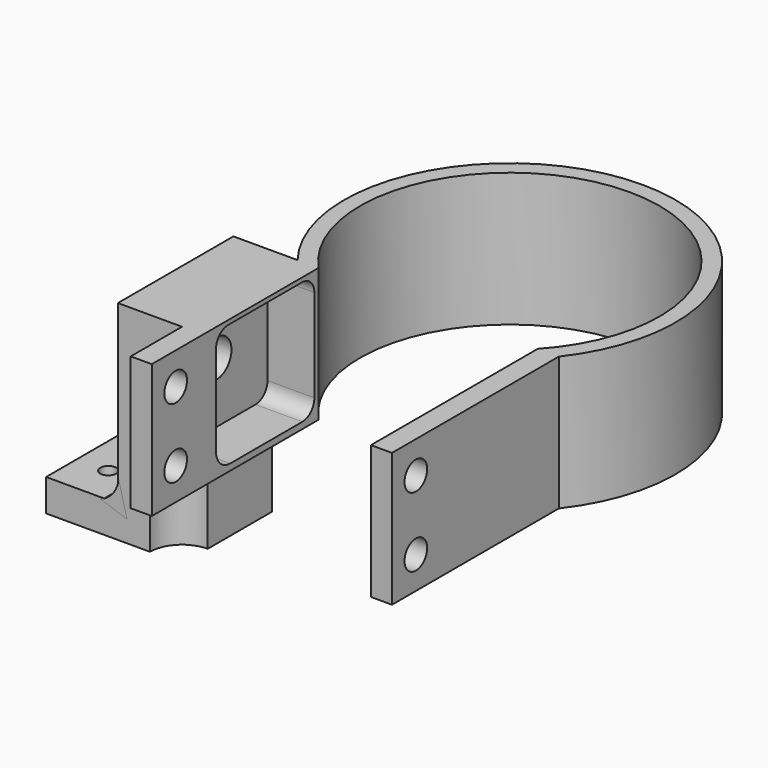
from build123d import *

# Parameters (mm, degrees)
PAD079_DEPTH    = 25
SKETCH168_R     = 28
POCKET096_DEPTH = 25
SKETCH169_W     = 48.856676
SKETCH169_H     = 39
PAD080_DEPTH    = 25
SKETCH172_W     = 27
SKETCH172_H     = 39
PAD081_DEPTH    = 12
SKETCH175_W     = 27
SKETCH175_H     = 6
PAD082_DEPTH    = 15
SKETCH170_W     = 40.975294
SKETCH170_H     = 39
POCKET097_DEPTH = 25.001
PAD083_DEPTH    = 27
POCKET098_DEPTH = 9
SKETCH177_R     = 6
POCKET099_DEPTH = 14
SKETCH171_R     = 2.65
POCKET100_DEPTH = 55.429338
SKETCH174_R     = 3.5
POCKET101_DEPTH = 8
SKETCH176_R     = 1.5
POCKET102_DEPTH = 6


with BuildPart() as part:
    # Sketch167 → Pad079 (new body)
    with BuildSketch(Plane.XY):
        with BuildLine():
            ThreePointArc((24.428333, -19.085506), (0, 31), (-24.428333, -19.085506))
            Line((-24.428333, -19.085506), (24.428333, -19.085506))
        make_face()
    extrude(amount=PAD079_DEPTH)

    # Sketch168 → Pocket096 (cut)
    with BuildSketch(Plane.XY):
        Circle(SKETCH168_R)
    extrude(amount=POCKET096_DEPTH, mode=Mode.SUBTRACT)

    # Sketch169 → Pad080 (join)
    with BuildSketch(Plane.XY):
        with Locations((0, -38.5855)):
            Rectangle(SKETCH169_W, SKETCH169_H)
    extrude(amount=PAD080_DEPTH)

    # Sketch172 (on Face3 of Pad080) → Pad081 (join)
    with BuildSketch(Plane(origin=(-24.428338, 0, 0), x_dir=(0, -1, 0), z_dir=(-1, 0, 0))):
        with Locations((32.5855, 5.5)):
            Rectangle(SKETCH172_W, SKETCH172_H)
    extrude(amount=PAD081_DEPTH)

    # Sketch175 → Pad082 (join)
    with BuildSketch(Plane(origin=(-34.852298, 0, 0), x_dir=(0, -1, 0), z_dir=(-1, 0, 0))):
        with Locations((32.5855, -11)):
            Rectangle(SKETCH175_W, SKETCH175_H)
    extrude(amount=PAD082_DEPTH)

    # Sketch170 → Pocket097 (cut, through all)
    with BuildSketch(Plane.XY):
        with Locations((0, -38.5855)):
            Rectangle(SKETCH170_W, SKETCH170_H)
    extrude(amount=POCKET097_DEPTH, mode=Mode.SUBTRACT)

    # Sketch178 (on Face3 of Pocket097) → Pad083 (join)
    with BuildSketch(Plane(origin=(-2e-06, -19.085505, 0), x_dir=(-1, 0, 0), z_dir=(0, 1, 0))):
        with BuildLine():
            ThreePointArc((36.284298, -3.912067), (37.350001, -6.635466), (39.740093, -8.32072))
            Line((34.729457, -10.005197), (39.740093, -8.32072))
            Line((36.284298, -3.912067), (34.729457, -10.005197))
        make_face()
    extrude(amount=-PAD083_DEPTH)

    # Sketch173 → Pocket098 (cut)
    with BuildSketch(Plane(origin=(-20.254085, -4e-06, 0), x_dir=(0, 1, 0), z_dir=(1, 0, 0))):
        with BuildLine():
            Line((-43.0855, 21.332453), (-43.0855, 4.527547))
            ThreePointArc((-43.0855, 4.527547), (-42.110884, 2.174616), (-39.757953, 1.2))
            Line((-39.757953, 1.2), (-22.878191, 1.2))
            ThreePointArc((-22.878191, 1.2), (-20.90346, 2.01796), (-20.0855, 3.992691))
            Line((-20.0855, 3.992691), (-20.0855, 21.342255))
            ThreePointArc((-20.0855, 21.342255), (-20.922514, 23.362986), (-22.943245, 24.2))
            Line((-22.943245, 24.2), (-40.217953, 24.2))
            ThreePointArc((-40.217953, 24.2), (-42.245615, 23.360115), (-43.0855, 21.332453))
        make_face()
    extrude(amount=-POCKET098_DEPTH, mode=Mode.SUBTRACT)

    # Sketch177 → Pocket099 (cut)
    with BuildSketch(Plane(origin=(0, 0, -14), x_dir=(1, 0, 0), z_dir=(0, 0, -1))):
        with Locations((-24.428338, 46.0855)):
            Circle(SKETCH177_R)
        with Locations((-24.428338, 19.0855)):
            Circle(SKETCH177_R)
    extrude(amount=-POCKET099_DEPTH, mode=Mode.SUBTRACT)

    # Sketch171 (on Face12 of Pocket099) → Pocket100 (cut, through all)
    with BuildSketch(Plane(origin=(-24.428338, 0, 0), x_dir=(0, -1, 0), z_dir=(-1, 0, 0))):
        with Locations((52.5, 19)):
            Circle(SKETCH171_R)
        with Locations((52.5, 6)):
            Circle(SKETCH171_R)
    extrude(amount=-POCKET100_DEPTH, mode=Mode.SUBTRACT)

    # Sketch174 (on Face7 of Pocket100) → Pocket101 (cut)
    with BuildSketch(Plane(origin=(-36.428338, 0, 0), x_dir=(0, -1, 0), z_dir=(-1, 0, 0))):
        with Locations((32, 12.5)):
            Circle(SKETCH174_R)
    extrude(amount=-POCKET101_DEPTH, mode=Mode.SUBTRACT)

    # Sketch176 (on Face10 of Pocket101) → Pocket102 (cut)
    with BuildSketch(Plane(origin=(0, 0, -14), x_dir=(1, 0, 0), z_dir=(0, 0, -1))):
        with Locations((-44, 38.8542)):
            Circle(SKETCH176_R)
        with Locations((-44, 25.8542)):
            Circle(SKETCH176_R)
        with Locations((-41, 32.3542)):
            Circle(SKETCH176_R)
    extrude(amount=-POCKET102_DEPTH, mode=Mode.SUBTRACT)


solid = part.part
